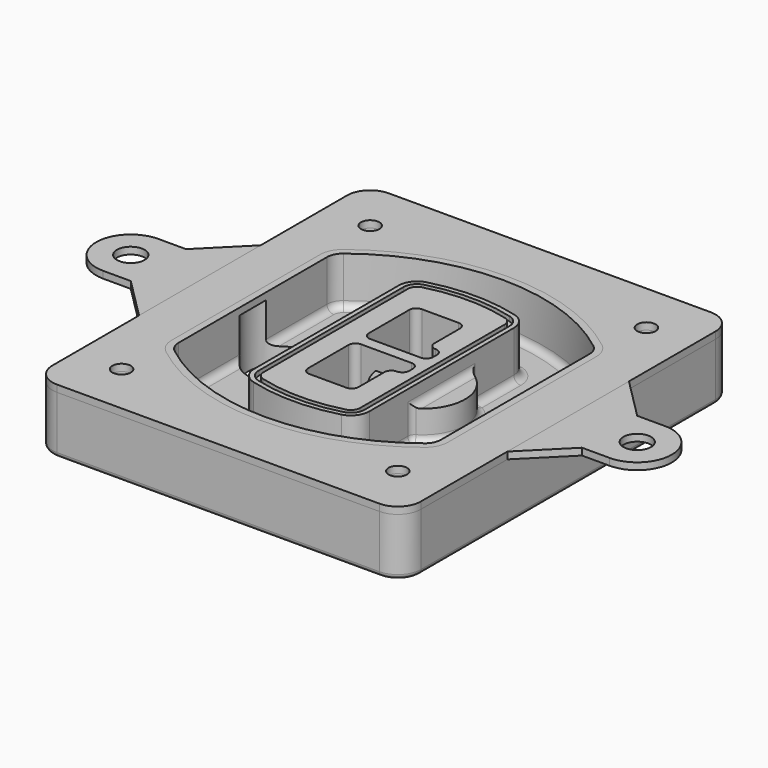
from build123d import *

# Parameters (mm, degrees)
F0_R      = 4
F1_DEPTH  = 25
F2_DEPTH  = 3
F3_DEPTH  = 18
F5_DEPTH  = 21
F6_DEPTH  = 2
F8_DEPTH  = 20
F9_DEPTH  = 16
F10_DEPTH = 25
F7_R      = 6
F7_R_2    = 4
F11_DEPTH = 6
F13_DEPTH = 9
F14_R     = 3
F15_R     = 2
F16_R     = 6
F18_DEPTH = 3
F17_R     = 4


with BuildPart() as f1:
    # F0 (on Top) → F1 (new body)
    with BuildSketch(Plane.XY):
        with BuildLine():
            ThreePointArc((-80, -80), (-77.0710678119, -87.0710678119), (-70, -90))
            Line((-70, -90), (70, -90))
            ThreePointArc((70, -90), (77.0710678119, -87.0710678119), (80, -80))
            Line((80, -80), (80, 80))
            ThreePointArc((80, 80), (77.0710678119, 87.0710678119), (70, 90))
            Line((70, 90), (-70, 90))
            ThreePointArc((-70, 90), (-77.0710678119, 87.0710678119), (-80, 80))
            Line((-80, 80), (-80, -80))
        make_face()
        with Locations((-60, -67.5)):
            Circle(F0_R, mode=Mode.SUBTRACT)
        with Locations((60, -67.5)):
            Circle(F0_R, mode=Mode.SUBTRACT)
        with Locations((-60, 67.5)):
            Circle(F0_R, mode=Mode.SUBTRACT)
        with BuildLine():
            ThreePointArc((-64, 40.2934422872), (-62.5820384798, 46.4328484224), (-58.6153846154, 51.3286200352))
            ThreePointArc((-58.6153846154, 51.3286200352), (0, 71.5), (58.6153846154, 51.3286200352))
            ThreePointArc((58.6153846154, 51.3286200352), (62.5820384798, 46.4328484224), (64, 40.2934422872))
            Line((64, 40.2934422872), (64, -40.2934422872))
            ThreePointArc((64, -40.2934422872), (62.5820384798, -46.4328484224), (58.6153846154, -51.3286200352))
            ThreePointArc((58.6153846154, -51.3286200352), (0, -71.5), (-58.6153846154, -51.3286200352))
            ThreePointArc((-58.6153846154, -51.3286200352), (-62.5820384798, -46.4328484224), (-64, -40.2934422872))
            Line((-64, -40.2934422872), (-64, 40.2934422872))
        make_face(mode=Mode.SUBTRACT)
        with Locations((60, 67.5)):
            Circle(F0_R, mode=Mode.SUBTRACT)
        with BuildLine():
            ThreePointArc((58.6153846154, 51.3286200352), (0, 71.5), (-58.6153846154, 51.3286200352))
            ThreePointArc((-58.6153846154, 51.3286200352), (-62.5820384798, 46.4328484224), (-64, 40.2934422872))
            Line((-64, 40.2934422872), (-64, -40.2934422872))
            ThreePointArc((-64, -40.2934422872), (-62.5820384798, -46.4328484224), (-58.6153846154, -51.3286200352))
            ThreePointArc((-58.6153846154, -51.3286200352), (0, -71.5), (58.6153846154, -51.3286200352))
            ThreePointArc((58.6153846154, -51.3286200352), (62.5820384798, -46.4328484224), (64, -40.2934422872))
            Line((64, -40.2934422872), (64, 40.2934422872))
            ThreePointArc((64, 40.2934422872), (62.5820384798, 46.4328484224), (58.6153846154, 51.3286200352))
        make_face()
        with BuildLine():
            Line((-60, -40.2934422872), (-60, 40.2934422872))
            ThreePointArc((-60, 40.2934422872), (-58.9871703427, 44.6787323838), (-56.1538461538, 48.1757121072))
            ThreePointArc((-56.1538461538, 48.1757121072), (0, 67.5), (56.1538461538, 48.1757121072))
            ThreePointArc((56.1538461538, 48.1757121072), (58.9871703427, 44.6787323838), (60, 40.2934422872))
            Line((60, 40.2934422872), (60, -40.2934422872))
            ThreePointArc((60, -40.2934422872), (58.9871703427, -44.6787323838), (56.1538461538, -48.1757121072))
            ThreePointArc((56.1538461538, -48.1757121072), (0, -67.5), (-56.1538461538, -48.1757121072))
            ThreePointArc((-56.1538461538, -48.1757121072), (-58.9871703427, -44.6787323838), (-60, -40.2934422872))
        make_face(mode=Mode.SUBTRACT)
        with BuildLine():
            ThreePointArc((-56.1538461538, 48.1757121072), (-58.9871703427, 44.6787323838), (-60, 40.2934422872))
            Line((-60, 40.2934422872), (-60, -40.2934422872))
            ThreePointArc((-60, -40.2934422872), (-58.9871703427, -44.6787323838), (-56.1538461538, -48.1757121072))
            ThreePointArc((-56.1538461538, -48.1757121072), (0, -67.5), (56.1538461538, -48.1757121072))
            ThreePointArc((56.1538461538, -48.1757121072), (58.9871703427, -44.6787323838), (60, -40.2934422872))
            Line((60, -40.2934422872), (60, 40.2934422872))
            ThreePointArc((60, 40.2934422872), (58.9871703427, 44.6787323838), (56.1538461538, 48.1757121072))
            ThreePointArc((56.1538461538, 48.1757121072), (0, 67.5), (-56.1538461538, 48.1757121072))
        make_face()
        with BuildLine():
            ThreePointArc((54.3076923077, 45.8110311612), (56.2910192399, 43.3631453548), (57, 40.2934422872))
            Line((57, 40.2934422872), (57, -40.2934422872))
            ThreePointArc((57, -40.2934422872), (56.2910192399, -43.3631453548), (54.3076923077, -45.8110311612))
            ThreePointArc((54.3076923077, -45.8110311612), (0, -64.5), (-54.3076923077, -45.8110311612))
            ThreePointArc((-54.3076923077, -45.8110311612), (-56.2910192399, -43.3631453548), (-57, -40.2934422872))
            Line((-57, -40.2934422872), (-57, 40.2934422872))
            ThreePointArc((-57, 40.2934422872), (-56.2910192399, 43.3631453548), (-54.3076923077, 45.8110311612))
            ThreePointArc((-54.3076923077, 45.8110311612), (0, 64.5), (54.3076923077, 45.8110311612))
        make_face(mode=Mode.SUBTRACT)
        with BuildLine():
            Line((57, -40.2934422872), (57, 40.2934422872))
            ThreePointArc((57, 40.2934422872), (56.2910192399, 43.3631453548), (54.3076923077, 45.8110311612))
            ThreePointArc((54.3076923077, 45.8110311612), (0, 64.5), (-54.3076923077, 45.8110311612))
            ThreePointArc((-54.3076923077, 45.8110311612), (-56.2910192399, 43.3631453548), (-57, 40.2934422872))
            Line((-57, 40.2934422872), (-57, -40.2934422872))
            ThreePointArc((-57, -40.2934422872), (-56.2910192399, -43.3631453548), (-54.3076923077, -45.8110311612))
            ThreePointArc((-54.3076923077, -45.8110311612), (0, -64.5), (54.3076923077, -45.8110311612))
            ThreePointArc((54.3076923077, -45.8110311612), (56.2910192399, -43.3631453548), (57, -40.2934422872))
        make_face()
    extrude(amount=-F1_DEPTH)

    # F0 (on Top) → F2 (join)
    with BuildSketch(Plane.XY):
        with BuildLine():
            ThreePointArc((-56.1538461538, 48.1757121072), (-58.9871703427, 44.6787323838), (-60, 40.2934422872))
            Line((-60, 40.2934422872), (-60, -40.2934422872))
            ThreePointArc((-60, -40.2934422872), (-58.9871703427, -44.6787323838), (-56.1538461538, -48.1757121072))
            ThreePointArc((-56.1538461538, -48.1757121072), (0, -67.5), (56.1538461538, -48.1757121072))
            ThreePointArc((56.1538461538, -48.1757121072), (58.9871703427, -44.6787323838), (60, -40.2934422872))
            Line((60, -40.2934422872), (60, 40.2934422872))
            ThreePointArc((60, 40.2934422872), (58.9871703427, 44.6787323838), (56.1538461538, 48.1757121072))
            ThreePointArc((56.1538461538, 48.1757121072), (0, 67.5), (-56.1538461538, 48.1757121072))
        make_face()
        with BuildLine():
            ThreePointArc((54.3076923077, 45.8110311612), (56.2910192399, 43.3631453548), (57, 40.2934422872))
            Line((57, 40.2934422872), (57, -40.2934422872))
            ThreePointArc((57, -40.2934422872), (56.2910192399, -43.3631453548), (54.3076923077, -45.8110311612))
            ThreePointArc((54.3076923077, -45.8110311612), (0, -64.5), (-54.3076923077, -45.8110311612))
            ThreePointArc((-54.3076923077, -45.8110311612), (-56.2910192399, -43.3631453548), (-57, -40.2934422872))
            Line((-57, -40.2934422872), (-57, 40.2934422872))
            ThreePointArc((-57, 40.2934422872), (-56.2910192399, 43.3631453548), (-54.3076923077, 45.8110311612))
            ThreePointArc((-54.3076923077, 45.8110311612), (0, 64.5), (54.3076923077, 45.8110311612))
        make_face(mode=Mode.SUBTRACT)
    extrude(amount=F2_DEPTH)

    # F0 (on Top) → F3 (cut)
    with BuildSketch(Plane.XY):
        with BuildLine():
            Line((57, -40.2934422872), (57, 40.2934422872))
            ThreePointArc((57, 40.2934422872), (56.2910192399, 43.3631453548), (54.3076923077, 45.8110311612))
            ThreePointArc((54.3076923077, 45.8110311612), (0, 64.5), (-54.3076923077, 45.8110311612))
            ThreePointArc((-54.3076923077, 45.8110311612), (-56.2910192399, 43.3631453548), (-57, 40.2934422872))
            Line((-57, 40.2934422872), (-57, -40.2934422872))
            ThreePointArc((-57, -40.2934422872), (-56.2910192399, -43.3631453548), (-54.3076923077, -45.8110311612))
            ThreePointArc((-54.3076923077, -45.8110311612), (0, -64.5), (54.3076923077, -45.8110311612))
            ThreePointArc((54.3076923077, -45.8110311612), (56.2910192399, -43.3631453548), (57, -40.2934422872))
        make_face()
    extrude(amount=-F3_DEPTH, mode=Mode.SUBTRACT)

    # F4 (on face) → F5 (join, through all)
    with BuildSketch(Plane.XY.offset(3)):
        with BuildLine():
            ThreePointArc((-25, -39.2465276821), (-23.3511545998, -44.1109737193), (-19.0842911877, -46.9702398883))
            ThreePointArc((-19.0842911877, -46.9702398883), (0, -49.5), (19.0842911877, -46.9702398883))
            ThreePointArc((19.0842911877, -46.9702398883), (23.3511545998, -44.1109737193), (25, -39.2465276821))
            Line((25, -39.2465276821), (25, 39.2465276821))
            ThreePointArc((25, 39.2465276821), (23.3511545998, 44.1109737193), (19.0842911877, 46.9702398883))
            ThreePointArc((19.0842911877, 46.9702398883), (0, 49.5), (-19.0842911877, 46.9702398883))
            ThreePointArc((-19.0842911877, 46.9702398883), (-23.3511545998, 44.1109737193), (-25, 39.2465276821))
            Line((-25, 39.2465276821), (-25, -39.2465276821))
        make_face()
        with BuildLine():
            ThreePointArc((18.5632183908, 45.0393118368), (21.7633659499, 42.89486221), (23, 39.2465276821))
            Line((23, 39.2465276821), (23, -39.2465276821))
            ThreePointArc((23, -39.2465276821), (21.7633659499, -42.89486221), (18.5632183908, -45.0393118368))
            ThreePointArc((18.5632183908, -45.0393118368), (0, -47.5), (-18.5632183908, -45.0393118368))
            ThreePointArc((-18.5632183908, -45.0393118368), (-21.7633659499, -42.89486221), (-23, -39.2465276821))
            Line((-23, -39.2465276821), (-23, 39.2465276821))
            ThreePointArc((-23, 39.2465276821), (-21.7633659499, 42.89486221), (-18.5632183908, 45.0393118368))
            ThreePointArc((-18.5632183908, 45.0393118368), (0, 47.5), (18.5632183908, 45.0393118368))
        make_face(mode=Mode.SUBTRACT)
        with BuildLine():
            Line((23, -39.2465276821), (23, 39.2465276821))
            ThreePointArc((23, 39.2465276821), (21.7633659499, 42.89486221), (18.5632183908, 45.0393118368))
            ThreePointArc((18.5632183908, 45.0393118368), (0, 47.5), (-18.5632183908, 45.0393118368))
            ThreePointArc((-18.5632183908, 45.0393118368), (-21.7633659499, 42.89486221), (-23, 39.2465276821))
            Line((-23, 39.2465276821), (-23, -39.2465276821))
            ThreePointArc((-23, -39.2465276821), (-21.7633659499, -42.89486221), (-18.5632183908, -45.0393118368))
            ThreePointArc((-18.5632183908, -45.0393118368), (0, -47.5), (18.5632183908, -45.0393118368))
            ThreePointArc((18.5632183908, -45.0393118368), (21.7633659499, -42.89486221), (23, -39.2465276821))
        make_face()
        with BuildLine():
            ThreePointArc((18.0421455939, 43.1083837852), (20.1755772999, 41.6787507007), (21, 39.2465276821))
            Line((21, 39.2465276821), (21, -39.2465276821))
            ThreePointArc((21, -39.2465276821), (20.1755772999, -41.6787507007), (18.0421455939, -43.1083837852))
            ThreePointArc((18.0421455939, -43.1083837852), (0, -45.5), (-18.0421455939, -43.1083837852))
            ThreePointArc((-18.0421455939, -43.1083837852), (-20.1755772999, -41.6787507007), (-21, -39.2465276821))
            Line((-21, -39.2465276821), (-21, 39.2465276821))
            ThreePointArc((-21, 39.2465276821), (-20.1755772999, 41.6787507007), (-18.0421455939, 43.1083837852))
            ThreePointArc((-18.0421455939, 43.1083837852), (0, 45.5), (18.0421455939, 43.1083837852))
        make_face(mode=Mode.SUBTRACT)
        with BuildLine():
            Line((21, -39.2465276821), (21, 39.2465276821))
            ThreePointArc((21, 39.2465276821), (20.1755772999, 41.6787507007), (18.0421455939, 43.1083837852))
            ThreePointArc((18.0421455939, 43.1083837852), (0, 45.5), (-18.0421455939, 43.1083837852))
            ThreePointArc((-18.0421455939, 43.1083837852), (-20.1755772999, 41.6787507007), (-21, 39.2465276821))
            Line((-21, 39.2465276821), (-21, -39.2465276821))
            ThreePointArc((-21, -39.2465276821), (-20.1755772999, -41.6787507007), (-18.0421455939, -43.1083837852))
            ThreePointArc((-18.0421455939, -43.1083837852), (0, -45.5), (18.0421455939, -43.1083837852))
            ThreePointArc((18.0421455939, -43.1083837852), (20.1755772999, -41.6787507007), (21, -39.2465276821))
        make_face()
        with BuildLine():
            Line((-8, -2.5), (14, -2.5))
            ThreePointArc((14, -2.5), (16.1213203436, -3.3786796564), (17, -5.5))
            Line((17, -5.5), (17, -7.5))
            ThreePointArc((17, -7.5), (16.1213203436, -9.6213203436), (14, -10.5))
            ThreePointArc((14, -10.5), (11.8786796564, -11.3786796564), (11, -13.5))
            Line((11, -13.5), (11, -27.5))
            ThreePointArc((11, -27.5), (10.1213203436, -29.6213203436), (8, -30.5))
            Line((8, -30.5), (-8, -30.5))
            ThreePointArc((-8, -30.5), (-10.1213203436, -29.6213203436), (-11, -27.5))
            Line((-11, -27.5), (-11, -5.5))
            ThreePointArc((-11, -5.5), (-10.1213203436, -3.3786796564), (-8, -2.5))
        make_face(mode=Mode.SUBTRACT)
        with BuildLine():
            ThreePointArc((-8, 2.5), (-10.1213203436, 3.3786796564), (-11, 5.5))
            Line((-11, 5.5), (-11, 27.5))
            ThreePointArc((-11, 27.5), (-10.1213203436, 29.6213203436), (-8, 30.5))
            Line((-8, 30.5), (8, 30.5))
            ThreePointArc((8, 30.5), (10.1213203436, 29.6213203436), (11, 27.5))
            Line((11, 27.5), (11, 13.5))
            ThreePointArc((11, 13.5), (11.8786796564, 11.3786796564), (14, 10.5))
            ThreePointArc((14, 10.5), (16.1213203436, 9.6213203436), (17, 7.5))
            Line((17, 7.5), (17, 5.5))
            ThreePointArc((17, 5.5), (16.1213203436, 3.3786796564), (14, 2.5))
            Line((14, 2.5), (-8, 2.5))
        make_face(mode=Mode.SUBTRACT)
    extrude(amount=-F5_DEPTH)

    # F4 (on face) → F6 (cut)
    with BuildSketch(Plane.XY.offset(3)):
        with BuildLine():
            Line((23, -39.2465276821), (23, 39.2465276821))
            ThreePointArc((23, 39.2465276821), (21.7633659499, 42.89486221), (18.5632183908, 45.0393118368))
            ThreePointArc((18.5632183908, 45.0393118368), (0, 47.5), (-18.5632183908, 45.0393118368))
            ThreePointArc((-18.5632183908, 45.0393118368), (-21.7633659499, 42.89486221), (-23, 39.2465276821))
            Line((-23, 39.2465276821), (-23, -39.2465276821))
            ThreePointArc((-23, -39.2465276821), (-21.7633659499, -42.89486221), (-18.5632183908, -45.0393118368))
            ThreePointArc((-18.5632183908, -45.0393118368), (0, -47.5), (18.5632183908, -45.0393118368))
            ThreePointArc((18.5632183908, -45.0393118368), (21.7633659499, -42.89486221), (23, -39.2465276821))
        make_face()
        with BuildLine():
            ThreePointArc((18.0421455939, 43.1083837852), (20.1755772999, 41.6787507007), (21, 39.2465276821))
            Line((21, 39.2465276821), (21, -39.2465276821))
            ThreePointArc((21, -39.2465276821), (20.1755772999, -41.6787507007), (18.0421455939, -43.1083837852))
            ThreePointArc((18.0421455939, -43.1083837852), (0, -45.5), (-18.0421455939, -43.1083837852))
            ThreePointArc((-18.0421455939, -43.1083837852), (-20.1755772999, -41.6787507007), (-21, -39.2465276821))
            Line((-21, -39.2465276821), (-21, 39.2465276821))
            ThreePointArc((-21, 39.2465276821), (-20.1755772999, 41.6787507007), (-18.0421455939, 43.1083837852))
            ThreePointArc((-18.0421455939, 43.1083837852), (0, 45.5), (18.0421455939, 43.1083837852))
        make_face(mode=Mode.SUBTRACT)
    extrude(amount=-F6_DEPTH, mode=Mode.SUBTRACT)

    # F7 (on face) → F8 (join)
    with BuildSketch(Plane(origin=(0, 0, -25), x_dir=(1, 0, 0), z_dir=(0, 0, -1))):
        with BuildLine():
            ThreePointArc((3.28842436, 0), (16.7567035675, 13.4682792075), (30.224982775, 0))
            Line((30.224982775, 0), (35.224982775, 0))
            ThreePointArc((35.224982775, 0), (16.7567035675, 18.4682792075), (-1.71157564, 0))
            Line((-1.71157564, 0), (3.28842436, 0))
        make_face()
        with BuildLine():
            Line((3.28842436, 0), (30.224982775, 0))
            ThreePointArc((30.224982775, 0), (16.7567035675, 13.4682792075), (3.28842436, 0))
        make_face()
        with BuildLine():
            ThreePointArc((3.28842436, 0), (16.7567035675, -13.4682792075), (30.224982775, 0))
            Line((30.224982775, 0), (3.28842436, 0))
        make_face()
        with BuildLine():
            Line((35.224982775, 0), (30.224982775, 0))
            ThreePointArc((30.224982775, 0), (16.7567035675, -13.4682792075), (3.28842436, 0))
            Line((3.28842436, 0), (-1.71157564, 0))
            ThreePointArc((-1.71157564, 0), (16.7567035675, -18.4682792075), (35.224982775, 0))
        make_face()
    extrude(amount=-F8_DEPTH)

    # F7 (on face) → F9 (cut)
    with BuildSketch(Plane(origin=(0, 0, -25), x_dir=(1, 0, 0), z_dir=(0, 0, -1))):
        with BuildLine():
            Line((3.28842436, 0), (30.224982775, 0))
            ThreePointArc((30.224982775, 0), (16.7567035675, 13.4682792075), (3.28842436, 0))
        make_face()
        with BuildLine():
            ThreePointArc((3.28842436, 0), (16.7567035675, -13.4682792075), (30.224982775, 0))
            Line((30.224982775, 0), (3.28842436, 0))
        make_face()
    extrude(amount=-F9_DEPTH, mode=Mode.SUBTRACT)

    # F7 (on face) → F10 (cut)
    with BuildSketch(Plane(origin=(0, 0, -25), x_dir=(1, 0, 0), z_dir=(0, 0, -1))):
        with BuildLine():
            Line((-59.0318229325, 0), (-32.0952645175, 0))
            ThreePointArc((-32.0952645175, 0), (-45.563543725, 13.4682792075), (-59.0318229325, 0))
        make_face()
        with BuildLine():
            ThreePointArc((-59.0318229325, 0), (-45.563543725, -13.4682792075), (-32.0952645175, 0))
            Line((-32.0952645175, 0), (-59.0318229325, 0))
        make_face()
    extrude(amount=-F10_DEPTH, mode=Mode.SUBTRACT)

    # F7 (on face) → F11 (cut)
    with BuildSketch(Plane(origin=(0, 0, -25), x_dir=(1, 0, 0), z_dir=(0, 0, -1))):
        with Locations((60, -67.5)):
            Circle(F7_R)
        with Locations((60, -67.5)):
            Circle(F7_R_2, mode=Mode.SUBTRACT)
        with Locations((60, -67.5)):
            Circle(F7_R)
        with Locations((60, -67.5)):
            Circle(F7_R_2, mode=Mode.SUBTRACT)
        with Locations((-60, -67.5)):
            Circle(F7_R)
        with Locations((-60, -67.5)):
            Circle(F7_R_2, mode=Mode.SUBTRACT)
        with Locations((-60, -67.5)):
            Circle(F7_R)
        with Locations((-60, -67.5)):
            Circle(F7_R_2, mode=Mode.SUBTRACT)
        with Locations((-60, 67.5)):
            Circle(F7_R)
        with Locations((-60, 67.5)):
            Circle(F7_R_2, mode=Mode.SUBTRACT)
        with Locations((-60, 67.5)):
            Circle(F7_R)
        with Locations((-60, 67.5)):
            Circle(F7_R_2, mode=Mode.SUBTRACT)
        with Locations((60, 67.5)):
            Circle(F7_R)
        with Locations((60, 67.5)):
            Circle(F7_R_2, mode=Mode.SUBTRACT)
        with Locations((60, 67.5)):
            Circle(F7_R)
        with Locations((60, 67.5)):
            Circle(F7_R_2, mode=Mode.SUBTRACT)
    extrude(amount=-F11_DEPTH, mode=Mode.SUBTRACT)

    # F12 (on face) → F13 (cut, through all)
    with BuildSketch(Plane(origin=(0, 0, -9), x_dir=(1, 0, 0), z_dir=(0, 0, -1))):
        with BuildLine():
            Line((11, 13.5), (11, 17.5481537753))
            ThreePointArc((11, 17.5481537753), (2.5696536419, 11.8239143813), (-1.5415842455, 2.5))
            Line((-1.5415842455, 2.5), (3.5224848595, 2.5))
            ThreePointArc((3.5224848595, 2.5), (6.1857188154, 8.3455872281), (11.2536447004, 12.2927168648))
            ThreePointArc((11.2536447004, 12.2927168648), (11.0640958889, 12.8831798879), (11, 13.5))
        make_face()
        with BuildLine():
            ThreePointArc((11.2536447004, -12.2927168648), (6.1857188154, -8.3455872281), (3.5224848595, -2.5))
            Line((3.5224848595, -2.5), (-1.5415842455, -2.5))
            ThreePointArc((-1.5415842455, -2.5), (2.5696536419, -11.8239143813), (11, -17.5481537753))
            Line((11, -17.5481537753), (11, -13.5))
            ThreePointArc((11, -13.5), (11.0640958889, -12.8831798879), (11.2536447004, -12.2927168648))
        make_face()
        with BuildLine():
            ThreePointArc((11.2536447004, 12.2927168648), (6.1857188154, 8.3455872281), (3.5224848595, 2.5))
            Line((3.5224848595, 2.5), (14, 2.5))
            ThreePointArc((14, 2.5), (16.1213203436, 3.3786796564), (17, 5.5))
            Line((17, 5.5), (17, 7.5))
            ThreePointArc((17, 7.5), (16.1213203436, 9.6213203436), (14, 10.5))
            ThreePointArc((14, 10.5), (12.3601599782, 10.9878446101), (11.2536447004, 12.2927168648))
        make_face()
        with BuildLine():
            Line((14, -2.5), (3.5224848595, -2.5))
            ThreePointArc((3.5224848595, -2.5), (6.1857188154, -8.3455872281), (11.2536447004, -12.2927168648))
            ThreePointArc((11.2536447004, -12.2927168648), (12.3601599782, -10.9878446101), (14, -10.5))
            ThreePointArc((14, -10.5), (16.1213203436, -9.6213203436), (17, -7.5))
            Line((17, -7.5), (17, -5.5))
            ThreePointArc((17, -5.5), (16.1213203436, -3.3786796564), (14, -2.5))
        make_face()
    extrude(amount=F13_DEPTH, mode=Mode.SUBTRACT)

    # F14
    f14_edges = [f1.edges().sort_by_distance(p)[0] for p in [
        (-57, -23.703476, -18),
        (-57, 23.703476, -18),
        (25, 0, -5),
        (25, 16.526506, -11.5),
        (25, -16.526506, -11.5),
        (25, -27.886517, -18),
        (35.224983, 0, -18),
    ]]
    fillet(f14_edges, radius=F14_R)

    # F15
    f15_edges = [f1.edges().sort_by_distance(p)[0] for p in [
        (0, -90, -25),
    ]]
    fillet(f15_edges, radius=F15_R)


with BuildPart() as f18:
    # F16 (on face) → F18 (new body, through all)
    with BuildSketch(Plane.XY):
        with BuildLine():
            Line((-98, -15), (-80, -33))
            Line((-80, -33), (-80, 33))
            Line((-80, 33), (-98, 15))
            Line((-98, 15), (-110, 15))
            ThreePointArc((-110, 15), (-125, 0), (-110, -15))
            Line((-110, -15), (-98, -15))
        make_face()
        with Locations((-110, 0)):
            Circle(F16_R, mode=Mode.SUBTRACT)
    extrude(amount=F18_DEPTH)


with BuildPart() as f18b:
    # F16 (on face) → F18, piece 2 (new body, through all)
    with BuildSketch(Plane.XY):
        with BuildLine():
            Line((80, 33), (80, -33))
            Line((80, -33), (98, -15))
            Line((98, -15), (110, -15))
            ThreePointArc((110, -15), (125, 0), (110, 15))
            Line((110, 15), (98, 15))
            Line((98, 15), (80, 33))
        make_face()
        with Locations((110, 0)):
            Circle(F16_R, mode=Mode.SUBTRACT)
    extrude(amount=F18_DEPTH)


with BuildPart() as f18c:
    # F17 (on face) → F18, piece 3 (new body, through all)
    with BuildSketch(Plane.XY):
        with BuildLine():
            Line((-80, 80), (-80, 33))
            Line((-80, 33), (-80, -33))
            Line((-80, -33), (-80, -80))
            ThreePointArc((-80, -80), (-77.0710678119, -87.0710678119), (-70, -90))
            Line((-70, -90), (70, -90))
            ThreePointArc((70, -90), (77.0710678119, -87.0710678119), (80, -80))
            Line((80, -80), (80, -33))
            Line((80, -33), (80, 33))
            Line((80, 33), (80, 80))
            ThreePointArc((80, 80), (77.0710678119, 87.0710678119), (70, 90))
            Line((70, 90), (-70, 90))
            ThreePointArc((-70, 90), (-77.0710678119, 87.0710678119), (-80, 80))
        make_face()
        with Locations((-60, -67.5)):
            Circle(F17_R, mode=Mode.SUBTRACT)
        with Locations((60, -67.5)):
            Circle(F17_R, mode=Mode.SUBTRACT)
        with BuildLine():
            Line((-60, -40.2934422872), (-60, 40.2934422872))
            ThreePointArc((-60, 40.2934422872), (-58.9871703427, 44.6787323838), (-56.1538461538, 48.1757121072))
            ThreePointArc((-56.1538461538, 48.1757121072), (0, 67.5), (56.1538461538, 48.1757121072))
            ThreePointArc((56.1538461538, 48.1757121072), (58.9871703427, 44.6787323838), (60, 40.2934422872))
            Line((60, 40.2934422872), (60, -40.2934422872))
            ThreePointArc((60, -40.2934422872), (58.9871703427, -44.6787323838), (56.1538461538, -48.1757121072))
            ThreePointArc((56.1538461538, -48.1757121072), (0, -67.5), (-56.1538461538, -48.1757121072))
            ThreePointArc((-56.1538461538, -48.1757121072), (-58.9871703427, -44.6787323838), (-60, -40.2934422872))
        make_face(mode=Mode.SUBTRACT)
        with Locations((-60, 67.5)):
            Circle(F17_R, mode=Mode.SUBTRACT)
        with Locations((60, 67.5)):
            Circle(F17_R, mode=Mode.SUBTRACT)
    extrude(amount=F18_DEPTH)


solid = Compound([f1.part, f18.part, f18b.part, f18c.part])
